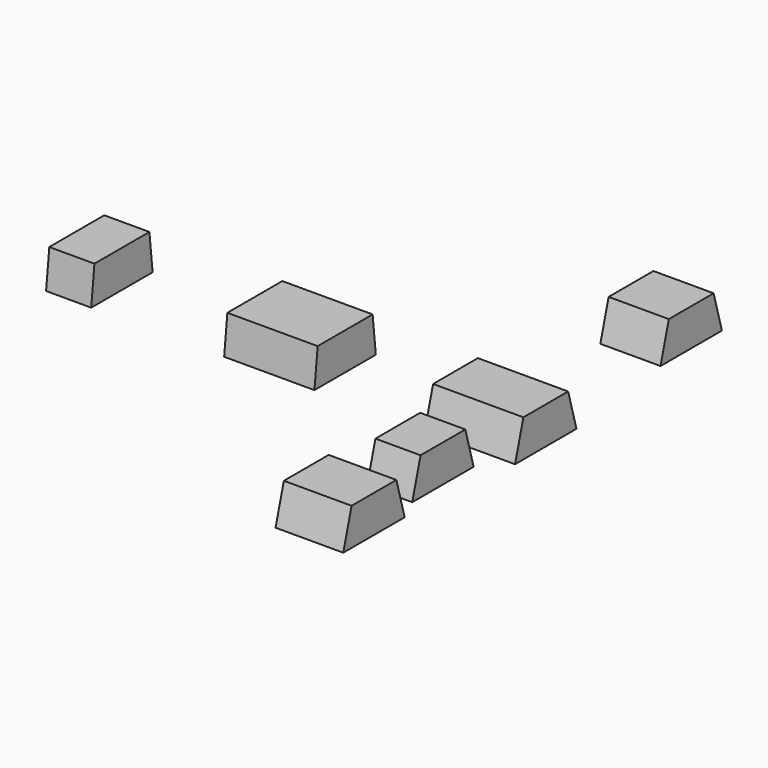
from build123d import *

# Parameters (mm, degrees)
F0_W   = 228.6
F0_H   = 194.31
F2_W   = 228.6
F2_H   = 141.732
F0_W_2 = 114.3
F2_W_2 = 114.3
F0_W_3 = 171.45
F2_W_3 = 171.45
F2_H_2 = 173.99


with BuildPart() as f3:
    # F0 (on Top) → F3 section 0
    with BuildSketch(Plane.XY):
        Rectangle(F0_W, F0_H)
    # F2 (on offset) → F3 section 1
    with BuildSketch(Plane.XY.offset(93.98)):
        Rectangle(F2_W, F2_H)
    loft()


with BuildPart() as f4:
    # F0 (on Top) → F4 section 0
    with BuildSketch(Plane.XY):
        with Locations((0, -254)):
            Rectangle(F0_W_2, F0_H)
    # F2 (on offset) → F4 section 1
    with BuildSketch(Plane.XY.offset(93.98)):
        with Locations((0, -254)):
            Rectangle(F2_W_2, F2_H)
    loft()


with BuildPart() as f5:
    # F0 (on Top) → F5 section 0
    with BuildSketch(Plane.XY):
        with Locations((0, -508)):
            Rectangle(F0_W_3, F0_H)
    # F2 (on offset) → F5 section 1
    with BuildSketch(Plane.XY.offset(93.98)):
        with Locations((0, -508)):
            Rectangle(F2_W_3, F2_H)
    loft()


with BuildPart() as f6:
    # F0 (on Top) → F6 section 0
    with BuildSketch(Plane.XY):
        Polygon((0, 410.845), (76.2, 410.845), (76.2, 605.155), (-76.2, 605.155), (-76.2, 410.845), align=None)
    # F2 (on offset) → F6 section 1
    with BuildSketch(Plane.XY.offset(93.98)):
        Polygon((0, 437.134), (76.2, 437.134), (76.2, 578.866), (-76.2, 578.866), (-76.2, 437.134), align=None)
    loft()


with BuildPart() as f7:
    # F0 (on Top) → F7 section 0
    with BuildSketch(Plane.XY):
        Polygon((-393.7, 97.155), (-622.3, 97.155), (-622.3, 86.995), (-622.3, -86.995), (-622.3, -92.075), (-622.3, -97.155), (-393.7, -97.155), align=None)
    # F2 (on offset) → F7 section 1
    with BuildSketch(Plane.XY.offset(93.98)):
        with Locations((-508, 0)):
            Rectangle(F2_W, F2_H_2)
    loft()


with BuildPart() as f8:
    # F0 (on Top) → F8 section 0
    with BuildSketch(Plane.XY):
        with Locations((-1016, 0)):
            Rectangle(F0_W_2, F0_H)
    # F2 (on offset) → F8 section 1
    with BuildSketch(Plane.XY.offset(93.98)):
        with Locations((-1016, 0)):
            Rectangle(F2_W_2, F2_H_2)
    loft()


solid = Compound([f3.part, f4.part, f5.part, f6.part, f7.part, f8.part])
